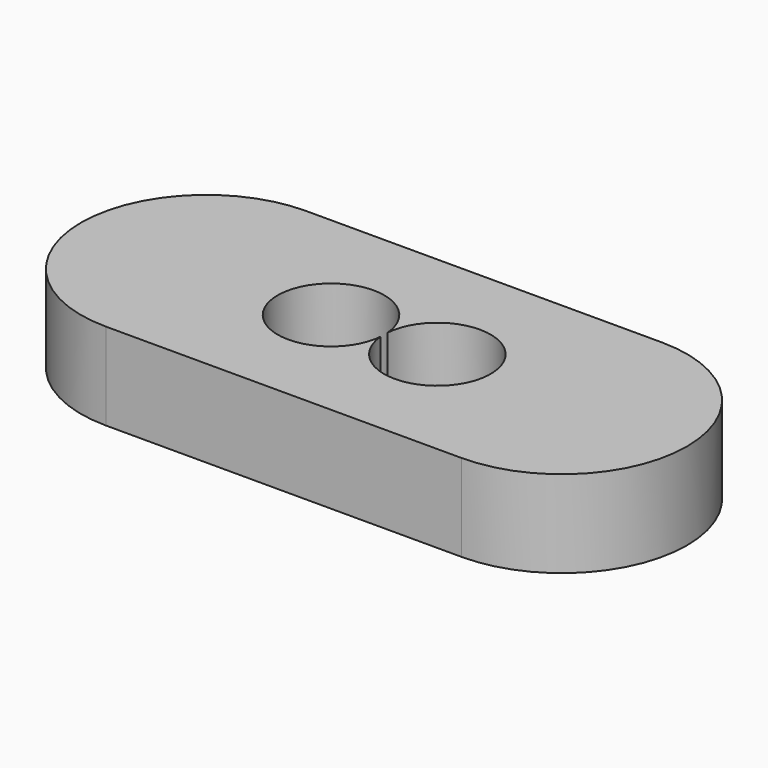
from build123d import *

# Parameters (mm, degrees)
F1_DEPTH = 12
F3_DEPTH = 10


with BuildPart() as f1:
    # F0 (on Top) → F1 (new body)
    with BuildSketch(Plane.XY):
        with BuildLine():
            Line((24.5, 17.25), (-24.5, 17.25))
            ThreePointArc((-24.5, 17.25), (-41.75, 0), (-24.5, -17.25))
            Line((-24.5, -17.25), (24.5, -17.25))
            ThreePointArc((24.5, -17.25), (41.75, 0), (24.5, 17.25))
        make_face()
    extrude(amount=F1_DEPTH)

    # F2 (on face) → F3 (cut)
    with BuildSketch(Plane.XY.offset(12)):
        with BuildLine():
            ThreePointArc((0.025, -0.605702), (14.7, 0), (0.025, 0.605702))
            ThreePointArc((0.025, 0.605702), (-14.65, 0), (0.025, -0.605702))
        make_face()
    extrude(amount=-F3_DEPTH, mode=Mode.SUBTRACT)


solid = f1.part
